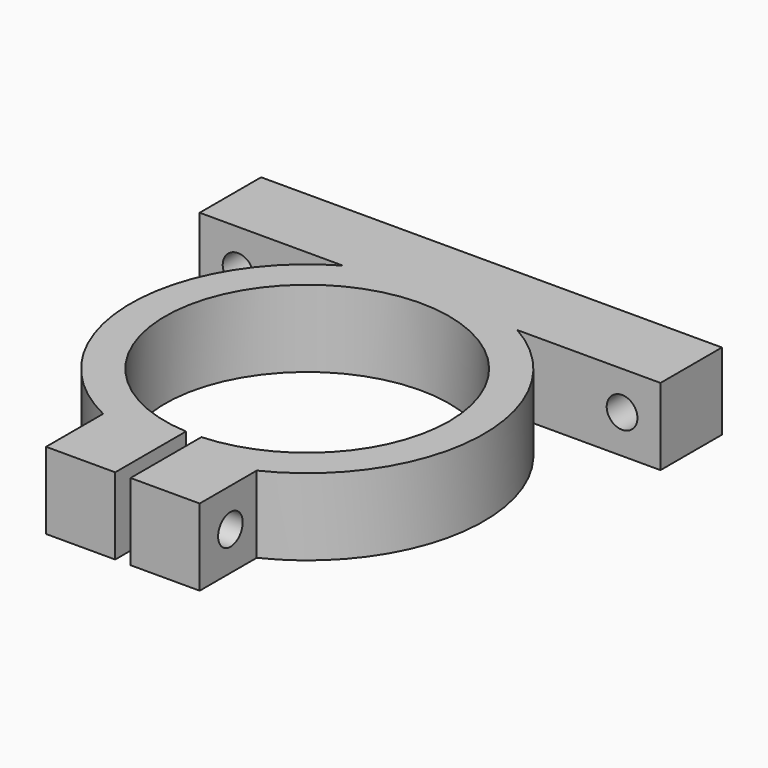
from build123d import *

# Parameters (mm, degrees)
CYLINDER002_R     = 2
CYLINDER002_DEPTH = 10
CYLINDER001_R     = 18.5
CYLINDER001_DEPTH = 10
CYLINDER004_R     = 2
CYLINDER004_DEPTH = 20
BOX002_W          = 2
BOX002_H          = 15
BOX002_DEPTH      = 10
CYLINDER003_R     = 2
CYLINDER003_DEPTH = 10
BOX_W             = 60
BOX_H             = 10
BOX_DEPTH         = 10
BOX001_W          = 20
BOX001_H          = 10
BOX001_DEPTH      = 10
CYLINDER_R        = 23
CYLINDER_DEPTH    = 10


with BuildPart() as cylinder002:
    # Cylinder002 → Cylinder002 (new body)
    with BuildSketch(Plane(origin=(25, 20, 0), x_dir=(1, 0, 0), z_dir=(0, 1, 0))):
        Circle(CYLINDER002_R)
    extrude(amount=CYLINDER002_DEPTH)


with BuildPart() as cylinder001:
    # Cylinder001 → Cylinder001 (new body)
    with BuildSketch(Plane.XY.offset(-5)):
        Circle(CYLINDER001_R)
    extrude(amount=CYLINDER001_DEPTH)


with BuildPart() as cylinder004:
    # Cylinder004 → Cylinder004 (new body)
    with BuildSketch(Plane(origin=(-10, -25, 0), x_dir=(0, 0, -1), z_dir=(1, 0, 0))):
        Circle(CYLINDER004_R)
    extrude(amount=CYLINDER004_DEPTH)


with BuildPart() as cube002:
    # Box002 → Box002 (new body)
    with BuildSketch(Plane(origin=(-1, -30, -5), x_dir=(1, 0, 0), z_dir=(0, 0, 1))):
        with Locations((1, 7.5)):
            Rectangle(BOX002_W, BOX002_H)
    extrude(amount=BOX002_DEPTH)


with BuildPart() as negative_fusion:
    # Cylinder003 → Cylinder003 (new body)
    with BuildSketch(Plane(origin=(-25, 20, 0), x_dir=(1, 0, 0), z_dir=(0, 1, 0))):
        Circle(CYLINDER003_R)
    extrude(amount=CYLINDER003_DEPTH)

    # Fusion001: union Cylinder002, Cylinder001, Cylinder004, Cube002
    add(cylinder002.part)
    add(cylinder001.part)
    add(cylinder004.part)
    add(cube002.part)


with BuildPart() as cube:
    # Box → Box (new body)
    with BuildSketch(Plane(origin=(-30, 20, -5), x_dir=(1, 0, 0), z_dir=(0, 0, 1))):
        with Locations((30, 5)):
            Rectangle(BOX_W, BOX_H)
    extrude(amount=BOX_DEPTH)


with BuildPart() as cube001:
    # Box001 → Box001 (new body)
    with BuildSketch(Plane(origin=(-10, -30, -5), x_dir=(1, 0, 0), z_dir=(0, 0, 1))):
        with Locations((10, 5)):
            Rectangle(BOX001_W, BOX001_H)
    extrude(amount=BOX001_DEPTH)


with BuildPart() as cut:
    # Cylinder → Cylinder (new body)
    with BuildSketch(Plane.XY.offset(-5)):
        Circle(CYLINDER_R)
    extrude(amount=CYLINDER_DEPTH)

    # Fusion: union Cube, Cube001
    add(cube.part)
    add(cube001.part)

    # Cut: cut Negative Fusion
    add(negative_fusion.part, mode=Mode.SUBTRACT)


solid = cut.part
